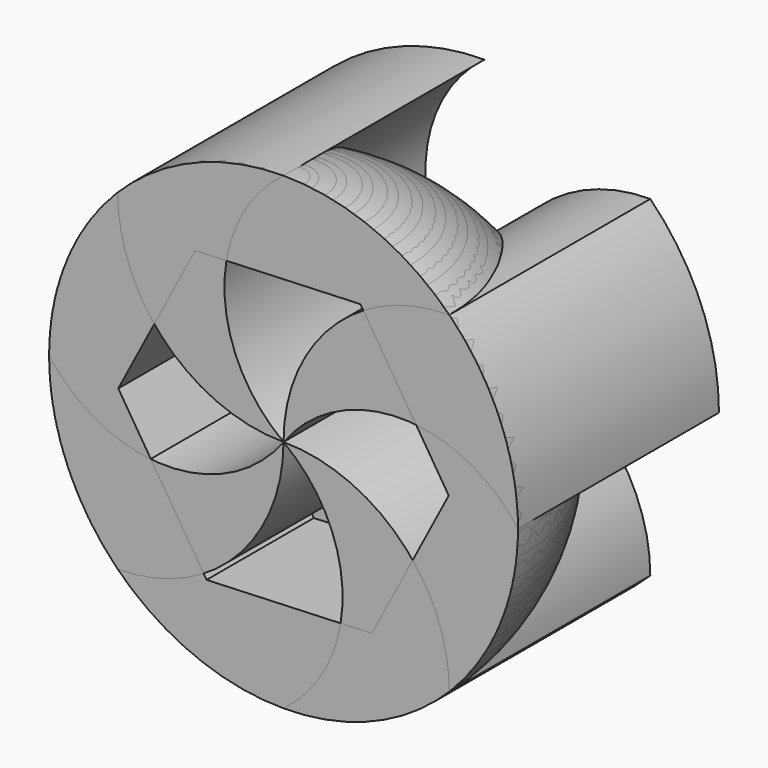
from build123d import *

# Parameters (mm, degrees)
SPHERE_ANGLE                                = 180
POCKET_DEPTH                                = 8
SKETCH001_R                                 = 4.9
POCKET001_DEPTH                             = 4
EXTRUDE_SKETCH002_DEPTH                     = 15
EXTRUDE_SKETCH002_ONTO_SKETCH002_ROLL_ANGLE = 90
ARRAY_COUNT                                 = 4
TORUS_R                                     = 1
TORUS_ROLL_ANGLE                            = 90


with BuildPart() as pocket001:
    # Sphere → Sphere (revolve)
    with BuildSketch(Plane.XZ):
        with BuildLine():
            ThreePointArc((0, -14), (14, 0), (0, 14))
            Line((0, 14), (0, -14))
        make_face()
    revolve(axis=Axis((0, 0, 0), (0, 0, 1)), revolution_arc=SPHERE_ANGLE)

    # Sketch → Pocket (cut)
    with BuildSketch(Plane.XZ):
        Polygon((-5.273143, 8.346494), (-9.864847, -0.393428), (-4.591705, -8.739923), (5.273143, -8.346494), (9.864847, 0.393428), (4.591705, 8.739923), align=None)
    extrude(amount=-POCKET_DEPTH, mode=Mode.SUBTRACT)

    # Sketch001 → Pocket001 (cut)
    with BuildSketch(Plane.XZ.offset(-8)):
        Circle(SKETCH001_R)
    extrude(amount=-POCKET001_DEPTH, mode=Mode.SUBTRACT)


with BuildPart() as array:
    # Sketch002 as drawn → Extrude_Sketch002 (new)
    with BuildSketch(Plane.XY):
        with BuildLine():
            ThreePointArc((-9.899495, -9.899495), (-2.899495, -7), (0, 0))
            ThreePointArc((-14, 0), (-7, -3.527566), (0, 0))
            ThreePointArc((-14, 0), (-12.934313, -5.357568), (-9.899495, -9.899495))
        make_face()
    extrude(amount=-EXTRUDE_SKETCH002_DEPTH)


with BuildPart() as array_1:
    # Extrude_Sketch002 onto Sketch002 roll: moved
    add(array.part.rotate(Axis((0, 0, 0), (1, 0, 0)), EXTRUDE_SKETCH002_ONTO_SKETCH002_ROLL_ANGLE))


with BuildPart() as array_2:
    # Extrude_Sketch002 onto Sketch002 placement: moved
    add(array_1.part)

    # Array: Array ×4 about axis
    array_axis = Axis((0, 0, 0), (0, 1, 0))


with BuildPart() as array_3:
    add(array_2.part)
    for i in range(1, ARRAY_COUNT):
        add(array_2.part.rotate(array_axis, i * 360 / ARRAY_COUNT))


with BuildPart() as clone_of_array:
    # Clone base: copy of Array
    add(array_3.part)


with BuildPart() as cut:
    # Clone002 base: copy of Pocket001
    add(pocket001.part)

    # Cut: cut Clone of Array
    add(clone_of_array.part, mode=Mode.SUBTRACT)


with BuildPart() as toro:
    # Torus → Torus (revolve)
    with BuildSketch(Plane.XZ):
        with Locations((12, 0)):
            Circle(TORUS_R)
    revolve(axis=Axis((0, 0, 0), (0, 0, 1)))


with BuildPart() as toro_1:
    # Torus roll: moved
    add(toro.part.rotate(Axis((0, 0, 0), (1, 0, 0)), TORUS_ROLL_ANGLE))


with BuildPart() as toro_2:
    # Torus placement: moved
    add(toro_1.part.moved(Location((0, 3, 0))))


with BuildPart() as fusion:
    # Fusion base: copy of Toro
    add(toro_2.part)

    # Fusion: union Cut
    add(cut.part)


with BuildPart() as clone_of_toro:
    # Clone004 base: copy of Toro
    add(toro_2.part)


with BuildPart() as clone_of_pocket001:
    # Clone001 base: copy of Pocket001
    add(pocket001.part)


with BuildPart() as cut001:
    # Clone003 base: copy of Array
    add(array_3.part)

    # Common: intersect Clone of Pocket001
    add(clone_of_pocket001.part, mode=Mode.INTERSECT)

    # Cut001: cut Clone of Toro
    add(clone_of_toro.part, mode=Mode.SUBTRACT)


solid = Compound([pocket001.part, array_3.part, fusion.part, cut001.part])
